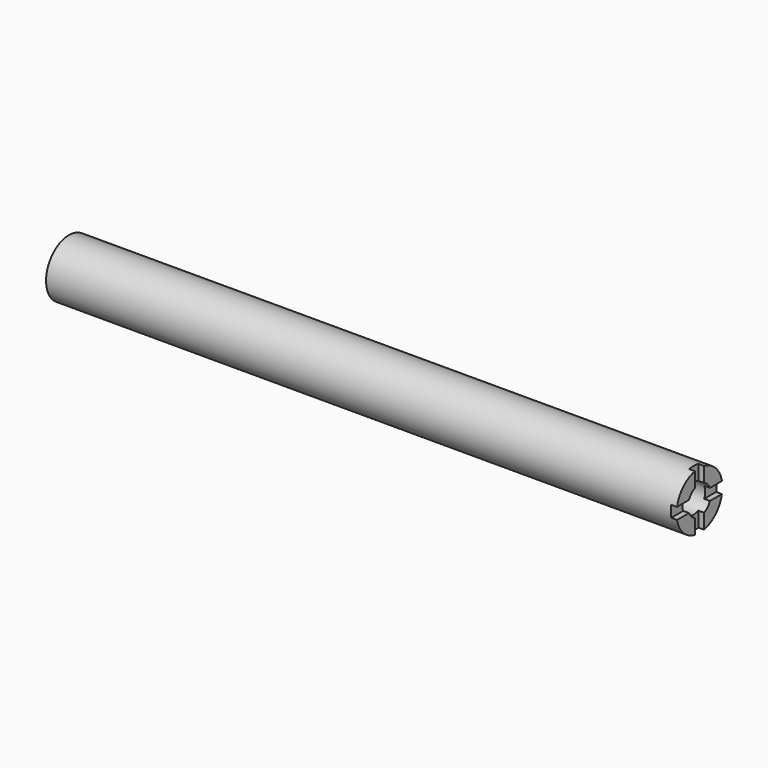
from build123d import *

# Parameters (mm, degrees)
F0_R     = 12.7
F3_W     = 5.08
F3_H     = 5.08
F4_DEPTH = 25.4
F5_W     = 5.08
F5_H     = 5.08
F6_DEPTH = 25.4
F7_R     = 6.35
F8_DEPTH = 25.4


with BuildPart() as f2:
    # F2: sweep along a path in F1
    with BuildLine(Plane.XZ) as f2_path:
        Line((0, 0), (-279.4, 0))
    # F0 (on Right) → F2 (sweep)
    with BuildSketch(Plane.YZ):
        Circle(F0_R)
    sweep(path=f2_path.line)

    # F3 (on Top) → F4 (cut, symmetric)
    with BuildSketch(Plane.XY):
        Rectangle(F3_W, F3_H)
    extrude(amount=F4_DEPTH, both=True, mode=Mode.SUBTRACT)

    # F5 (on Front) → F6 (cut, symmetric)
    with BuildSketch(Plane.XZ):
        Rectangle(F5_W, F5_H)
    extrude(amount=F6_DEPTH, both=True, mode=Mode.SUBTRACT)

    # F7 (on Right) → F8 (cut)
    with BuildSketch(Plane.YZ):
        Circle(F7_R)
    extrude(amount=-F8_DEPTH, mode=Mode.SUBTRACT)


solid = f2.part
